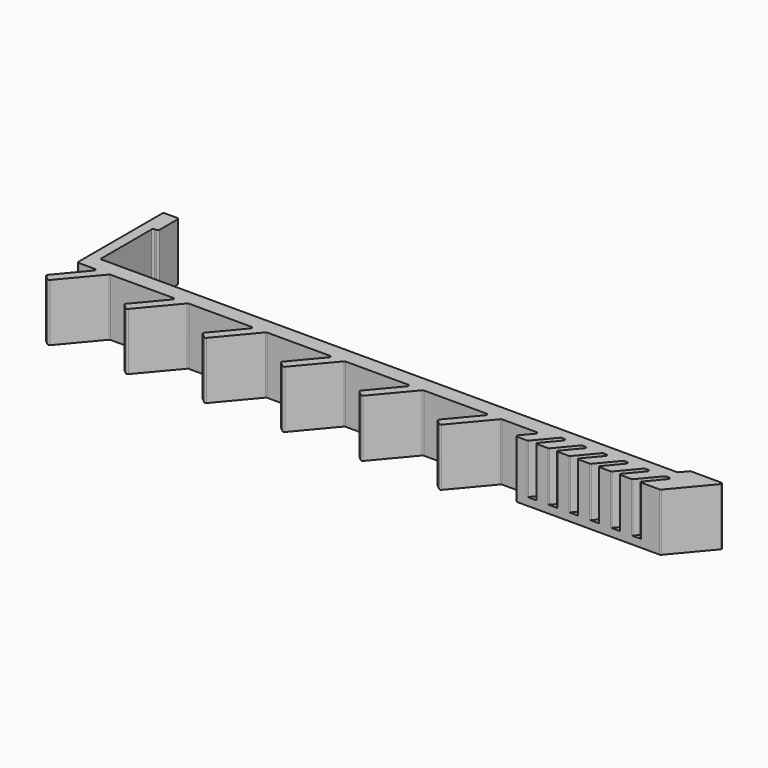
from build123d import *

# Parameters (mm, degrees)
F1_DEPTH = 11
F3_DEPTH = 1.5


with BuildPart() as f1:
    # F0 (on Top) → F1 (new body)
    with BuildSketch(Plane.XY):
        with BuildLine():
            ThreePointArc((-67.1, 20.6), (-67.312132, 20.512132), (-67.4, 20.3))
            Line((-67.4, 20.3), (-67.4, 0.3))
            ThreePointArc((-67.4, 0.3), (-67.312132, 0.087868), (-67.1, 0))
            Line((-67.1, 0), (-64.043352, 0))
            ThreePointArc((-64.043352, 0), (-63.77146, -0.173215), (-63.813539, -0.492836))
            Line((-63.813539, -0.492836), (-68.349465, -5.898542))
            ThreePointArc((-68.349465, -5.898542), (-68.41851, -6.117525), (-68.312488, -6.321192))
            Line((-68.312488, -6.321192), (-67.469839, -7.028258))
            ThreePointArc((-67.469839, -7.028258), (-67.250856, -7.097303), (-67.047189, -6.991281))
            Line((-67.047189, -6.991281), (-61.270729, -0.107164))
            ThreePointArc((-61.270729, -0.107164), (-61.167701, -0.028108), (-61.040915, 0))
            Line((-61.040915, 0), (-49.043352, 0))
            ThreePointArc((-49.043352, 0), (-48.77146, -0.173215), (-48.813539, -0.492836))
            Line((-48.813539, -0.492836), (-53.349465, -5.898542))
            ThreePointArc((-53.349465, -5.898542), (-53.41851, -6.117525), (-53.312488, -6.321192))
            Line((-53.312488, -6.321192), (-52.469839, -7.028258))
            ThreePointArc((-52.469839, -7.028258), (-52.250856, -7.097303), (-52.047189, -6.991281))
            Line((-52.047189, -6.991281), (-46.270729, -0.107164))
            ThreePointArc((-46.270729, -0.107164), (-46.167701, -0.028108), (-46.040915, 0))
            Line((-46.040915, 0), (-34.043352, 0))
            ThreePointArc((-34.043352, 0), (-33.77146, -0.173215), (-33.813539, -0.492836))
            Line((-33.813539, -0.492836), (-38.349465, -5.898542))
            ThreePointArc((-38.349465, -5.898542), (-38.41851, -6.117525), (-38.312488, -6.321192))
            Line((-38.312488, -6.321192), (-37.469839, -7.028258))
            ThreePointArc((-37.469839, -7.028258), (-37.250856, -7.097303), (-37.047189, -6.991281))
            Line((-37.047189, -6.991281), (-31.270729, -0.107164))
            ThreePointArc((-31.270729, -0.107164), (-31.167701, -0.028108), (-31.040915, 0))
            Line((-31.040915, 0), (-19.043352, 0))
            ThreePointArc((-19.043352, 0), (-18.77146, -0.173215), (-18.813539, -0.492836))
            Line((-18.813539, -0.492836), (-23.349465, -5.898542))
            ThreePointArc((-23.349465, -5.898542), (-23.41851, -6.117525), (-23.312488, -6.321192))
            Line((-23.312488, -6.321192), (-22.469839, -7.028258))
            ThreePointArc((-22.469839, -7.028258), (-22.250856, -7.097303), (-22.047189, -6.991281))
            Line((-22.047189, -6.991281), (-16.270729, -0.107164))
            ThreePointArc((-16.270729, -0.107164), (-16.167701, -0.028108), (-16.040915, 0))
            Line((-16.040915, 0), (-4.043352, 0))
            ThreePointArc((-4.043352, 0), (-3.77146, -0.173215), (-3.813539, -0.492836))
            Line((-3.813539, -0.492836), (-8.349465, -5.898542))
            ThreePointArc((-8.349465, -5.898542), (-8.41851, -6.117525), (-8.312488, -6.321192))
            Line((-8.312488, -6.321192), (-7.469839, -7.028258))
            ThreePointArc((-7.469839, -7.028258), (-7.250856, -7.097303), (-7.047189, -6.991281))
            Line((-7.047189, -6.991281), (-1.270729, -0.107164))
            ThreePointArc((-1.270729, -0.107164), (-1.167701, -0.028108), (-1.040915, 0))
            Line((-1.040915, 0), (10.956648, 0))
            ThreePointArc((10.956648, 0), (11.22854, -0.173215), (11.186461, -0.492836))
            Line((11.186461, -0.492836), (6.650535, -5.898542))
            ThreePointArc((6.650535, -5.898542), (6.58149, -6.117525), (6.687512, -6.321192))
            Line((6.687512, -6.321192), (7.530161, -7.028258))
            ThreePointArc((7.530161, -7.028258), (7.749144, -7.097303), (7.952811, -6.991281))
            Line((7.952811, -6.991281), (13.729271, -0.107164))
            ThreePointArc((13.729271, -0.107164), (13.832299, -0.028108), (13.959085, 0))
            Line((13.959085, 0), (20.524052, 0))
            ThreePointArc((20.524052, 0), (20.795944, -0.173215), (20.753865, -0.492836))
            Line((20.753865, -0.492836), (19.063644, -2.507164))
            ThreePointArc((19.063644, -2.507164), (19.021565, -2.826785), (19.293457, -3))
            Line((19.293457, -3), (21.121027, -3))
            ThreePointArc((21.121027, -3), (21.247813, -2.971892), (21.35084, -2.892836))
            Line((21.35084, -2.892836), (24.436221, 0.784177))
            ThreePointArc((24.436221, 0.784177), (24.539249, 0.863233), (24.666034, 0.891341))
            Line((24.666034, 0.891341), (25.188197, 0.891341))
            ThreePointArc((25.188197, 0.891341), (25.46009, 0.718126), (25.418011, 0.398504))
            Line((25.418011, 0.398504), (22.842019, -2.671442))
            ThreePointArc((22.842019, -2.671442), (22.813967, -2.884524), (22.995228, -3))
            Line((22.995228, -3), (25.121027, -3))
            ThreePointArc((25.121027, -3), (25.247813, -2.971892), (25.35084, -2.892836))
            Line((25.35084, -2.892836), (28.436221, 0.784177))
            ThreePointArc((28.436221, 0.784177), (28.539249, 0.863233), (28.666034, 0.891341))
            Line((28.666034, 0.891341), (29.188197, 0.891341))
            ThreePointArc((29.188197, 0.891341), (29.46009, 0.718126), (29.418011, 0.398504))
            Line((29.418011, 0.398504), (26.842019, -2.671442))
            ThreePointArc((26.842019, -2.671442), (26.813967, -2.884524), (26.995228, -3))
            Line((26.995228, -3), (29.121027, -3))
            ThreePointArc((29.121027, -3), (29.247813, -2.971892), (29.35084, -2.892836))
            Line((29.35084, -2.892836), (32.436221, 0.784177))
            ThreePointArc((32.436221, 0.784177), (32.539249, 0.863233), (32.666034, 0.891341))
            Line((32.666034, 0.891341), (33.188197, 0.891341))
            ThreePointArc((33.188197, 0.891341), (33.46009, 0.718126), (33.418011, 0.398504))
            Line((33.418011, 0.398504), (30.842019, -2.671442))
            ThreePointArc((30.842019, -2.671442), (30.813967, -2.884524), (30.995228, -3))
            Line((30.995228, -3), (33.121027, -3))
            ThreePointArc((33.121027, -3), (33.247813, -2.971892), (33.35084, -2.892836))
            Line((33.35084, -2.892836), (36.436221, 0.784177))
            ThreePointArc((36.436221, 0.784177), (36.539249, 0.863233), (36.666034, 0.891341))
            Line((36.666034, 0.891341), (37.188197, 0.891341))
            ThreePointArc((37.188197, 0.891341), (37.46009, 0.718126), (37.418011, 0.398504))
            Line((37.418011, 0.398504), (34.842019, -2.671442))
            ThreePointArc((34.842019, -2.671442), (34.813967, -2.884524), (34.995228, -3))
            Line((34.995228, -3), (37.121027, -3))
            ThreePointArc((37.121027, -3), (37.247813, -2.971892), (37.35084, -2.892836))
            Line((37.35084, -2.892836), (40.436221, 0.784177))
            ThreePointArc((40.436221, 0.784177), (40.539249, 0.863233), (40.666034, 0.891341))
            Line((40.666034, 0.891341), (41.188197, 0.891341))
            ThreePointArc((41.188197, 0.891341), (41.46009, 0.718126), (41.418011, 0.398504))
            Line((41.418011, 0.398504), (38.842019, -2.671442))
            ThreePointArc((38.842019, -2.671442), (38.813967, -2.884524), (38.995228, -3))
            Line((38.995228, -3), (41.121027, -3))
            ThreePointArc((41.121027, -3), (41.247813, -2.971892), (41.35084, -2.892836))
            Line((41.35084, -2.892836), (44.436221, 0.784177))
            ThreePointArc((44.436221, 0.784177), (44.539249, 0.863233), (44.666034, 0.891341))
            Line((44.666034, 0.891341), (45.188197, 0.891341))
            ThreePointArc((45.188197, 0.891341), (45.46009, 0.718126), (45.418011, 0.398504))
            Line((45.418011, 0.398504), (42.842019, -2.671442))
            ThreePointArc((42.842019, -2.671442), (42.813967, -2.884524), (42.995228, -3))
            Line((42.995228, -3), (46.510213, -3))
            ThreePointArc((46.510213, -3), (46.636998, -2.971892), (46.740026, -2.892836))
            Line((46.740026, -2.892836), (52.529813, 4.007164))
            ThreePointArc((52.529813, 4.007164), (52.571892, 4.326785), (52.3, 4.5))
            Line((52.3, 4.5), (46.556208, 4.5))
            ThreePointArc((46.556208, 4.5), (46.429422, 4.471892), (46.326395, 4.392836))
            Line((46.326395, 4.392836), (45.247587, 3.107164))
            ThreePointArc((45.247587, 3.107164), (45.144559, 3.028108), (45.017774, 3))
            Line((45.017774, 3), (-65.1, 3))
            ThreePointArc((-65.1, 3), (-65.312132, 3.087868), (-65.4, 3.3))
            Line((-65.4, 3.3), (-65.4, 15.3))
            ThreePointArc((-65.4, 15.3), (-65.312132, 15.512132), (-65.1, 15.6))
            Line((-65.1, 15.6), (-64.7, 15.6))
            ThreePointArc((-64.7, 15.6), (-64.487868, 15.687868), (-64.4, 15.9))
            Line((-64.4, 15.9), (-64.4, 20.3))
            ThreePointArc((-64.4, 20.3), (-64.487868, 20.512132), (-64.7, 20.6))
            Line((-64.7, 20.6), (-67.1, 20.6))
        make_face()
    extrude(amount=F1_DEPTH)

    # F2 (on face) → F3 (join)
    with BuildSketch(Plane(origin=(0, 0, 0), x_dir=(1, 0, 0), z_dir=(0, 0, -1))):
        with BuildLine():
            Line((23.684703, -3), (51.041351, -3))
            ThreePointArc((51.041351, -3), (51.313243, -2.826785), (51.271164, -2.507164))
            Line((51.271164, -2.507164), (46.740026, 2.892836))
            ThreePointArc((46.740026, 2.892836), (46.636998, 2.971892), (46.510213, 3))
            Line((46.510213, 3), (19.293457, 3))
            ThreePointArc((19.293457, 3), (19.021565, 2.826785), (19.063644, 2.507164))
            Line((19.063644, 2.507164), (23.684703, -3))
        make_face()
    extrude(amount=-F3_DEPTH)


solid = f1.part
